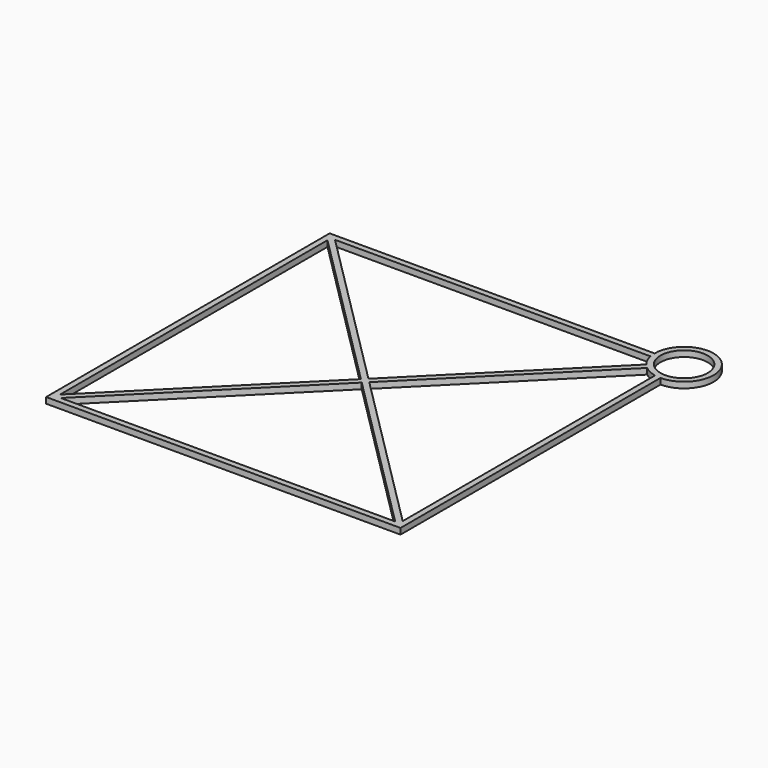
from build123d import *

# Parameters (mm, degrees)
F0_R     = 3.999999
F1_DEPTH = 1


with BuildPart() as f1:
    # F0 (on Top) → F1 (new body)
    with BuildSketch(Plane.XY):
        with BuildLine():
            Line((25, 30), (-30, 30))
            Line((-30, 30), (-30, -30))
            Line((-30, -30), (30, -30))
            Line((30, -30), (30, 25))
            ThreePointArc((30, 25), (33.535534, 33.535534), (25, 30))
        make_face()
        Polygon((28.292893, -29), (-28.292893, -29), (0, -0.707107), align=None, mode=Mode.SUBTRACT)
        Polygon((-29, -28.292893), (-29, 28.292893), (-0.707107, 0), align=None, mode=Mode.SUBTRACT)
        with BuildLine():
            Line((0.707107, 0), (26.835742, 26.128635))
            ThreePointArc((26.835742, 26.128635), (27.855411, 25.483282), (29, 25.101021))
            Line((29, 25.101021), (29, -28.292893))
            Line((29, -28.292893), (0.707107, 0))
        make_face(mode=Mode.SUBTRACT)
        with BuildLine():
            Line((0, 0.707107), (-28.292893, 29))
            Line((-28.292893, 29), (25.101021, 29))
            ThreePointArc((25.101021, 29), (25.483282, 27.855411), (26.128635, 26.835742))
            Line((26.128635, 26.835742), (0, 0.707107))
        make_face(mode=Mode.SUBTRACT)
        with Locations((30, 30)):
            Circle(F0_R, mode=Mode.SUBTRACT)
    extrude(amount=F1_DEPTH)


solid = f1.part
